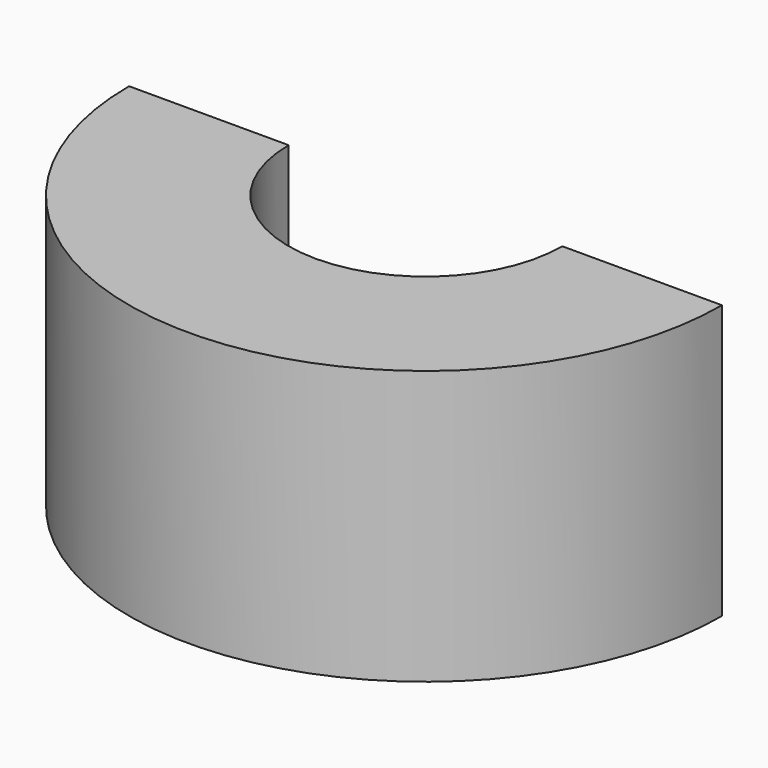
from build123d import *

# Parameters (mm, degrees)
F2_R     = 0.2
F3_W     = 35.523725
F3_H     = 30.81022
F4_DEPTH = 25


with BuildPart() as f1:
    # F0 (on Front) → F1 (revolve)
    with BuildSketch(Plane.XZ):
        with BuildLine():
            Line((6.5, 2.283427), (3, 2.283427))
            Line((3, 2.283427), (3, -3.716573))
            Line((3, -3.716573), (3.75, -3.716573))
            Line((3.75, -3.716573), (3.75, -1.716573))
            ThreePointArc((3.75, -1.716573), (4.75, -0.716573), (5.75, -1.716573))
            Line((5.75, -1.716573), (5.75, -3.716573))
            Line((5.75, -3.716573), (6.5, -3.716573))
            Line((6.5, -3.716573), (6.5, 2.283427))
        make_face()
    revolve(axis=Axis((0, 0, -0.059434), (0, 0, -1)))

    # F2
    f2_edges = [f1.edges().sort_by_distance(p)[0] for p in [
        (-5.75, 0, -3.716573),
        (-3.75, 0, -3.716573),
    ]]
    fillet(f2_edges, radius=F2_R)

    # F3 (on Front) → F4 (cut)
    with BuildSketch(Plane.XZ):
        with Locations((2.952699, 0.107419)):
            Rectangle(F3_W, F3_H)
    extrude(amount=-F4_DEPTH, mode=Mode.SUBTRACT)


solid = f1.part
